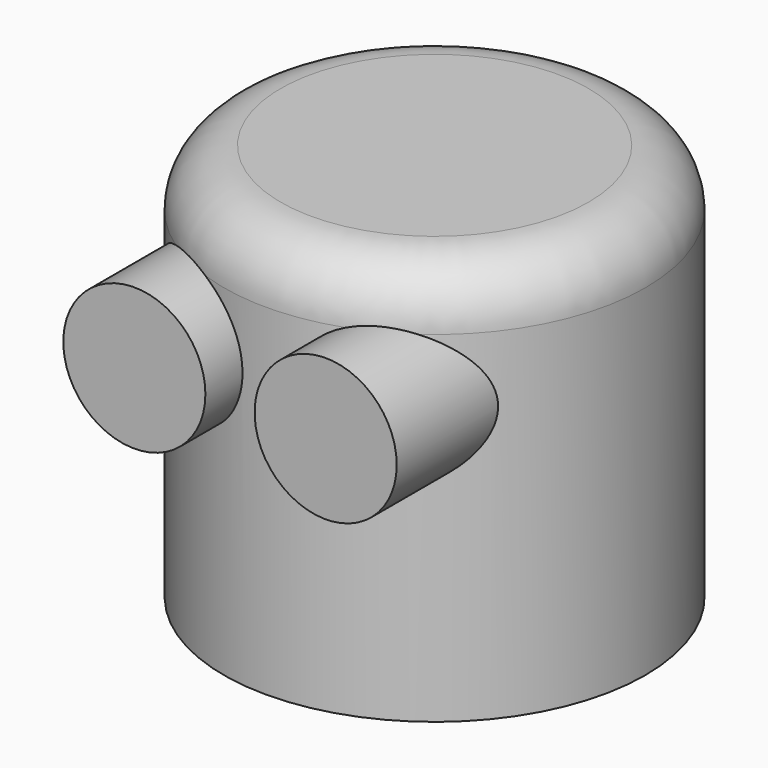
from build123d import *

# Parameters (mm, degrees)
F0_R     = 37.091659
F1_DEPTH = 70
F2_R     = 10
F3_R     = 12.5
F4_DEPTH = 45


with BuildPart() as f1:
    # F0 (on Top) → F1 (new body)
    with BuildSketch(Plane.XY):
        Circle(F0_R)
    extrude(amount=F1_DEPTH)

    # F2
    f2_edges = [f1.edges().sort_by_distance(p)[0] for p in [
        (-37.091659, 0, 70),
    ]]
    fillet(f2_edges, radius=F2_R)

    # F3 (on Front) → F4 (join)
    with BuildSketch(Plane.XZ):
        with Locations((-16.831745, 48.336694)):
            Circle(F3_R)
        with Locations((16.831745, 48.336694)):
            Circle(F3_R)
    extrude(amount=F4_DEPTH)


solid = f1.part
